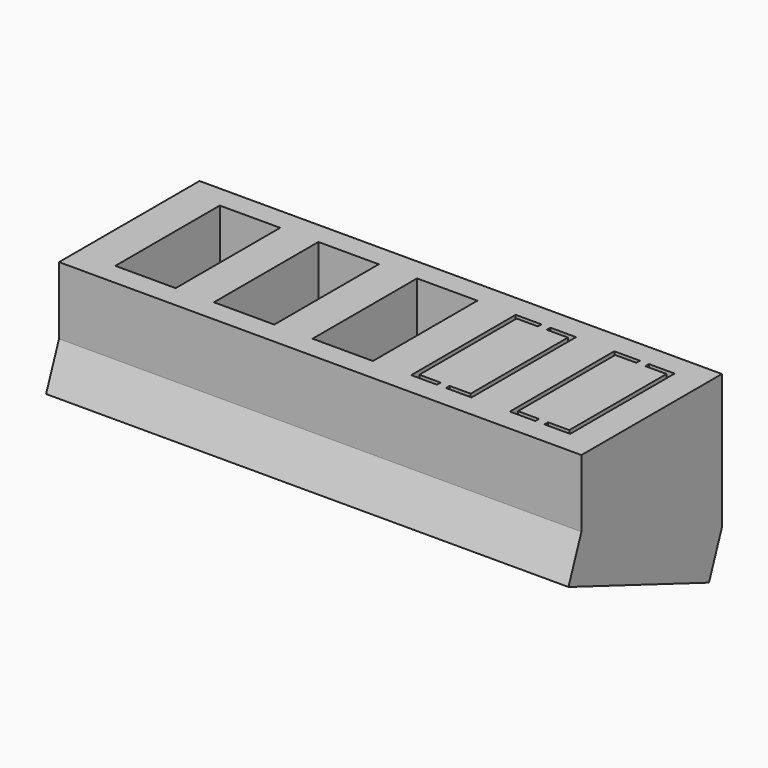
from build123d import *

# Parameters (mm, degrees)
F0_W      = 116
F0_H      = 39
F1_DEPTH  = 30
F3_DEPTH  = 121.2
F4_W      = 116
F4_H      = 41.7851648316
F5_DEPTH  = 10
F6_W      = 101
F6_H      = 31.0710200029
F7_DEPTH  = 3
F8_R      = 1.7573065985
F9_DEPTH  = 25
F10_W     = 2
F10_H     = 1
F11_DEPTH = 3


with BuildPart() as f1:
    # F0 (on Top) → F1 (new body)
    with BuildSketch(Plane.XY):
        with Locations((-10.4412920773, -4.4543696198)):
            Rectangle(F0_W, F0_H)
        Polygon((-59.9383048147, -18.9543696198), (-59.9383048147, 10.0456303802), (-46.5383048147, 10.0456303802), (-46.5383048147, -4.4543696198), (-46.5383048147, -18.9543696198), align=None, mode=Mode.SUBTRACT)
        Polygon((-38.0383048147, -18.9543696198), (-38.0383048147, -4.4543696198), (-38.0383048147, 10.0456303802), (-24.6383048147, 10.0456303802), (-24.6383048147, -4.4543696198), (-24.6383048147, -18.9543696198), align=None, mode=Mode.SUBTRACT)
        Polygon((-16.1383048147, -18.9543696198), (-16.1383048147, -4.4543696198), (-16.1383048147, 10.0456303802), (-2.7383048147, 10.0456303802), (-2.7383048147, -4.4543696198), (-2.7383048147, -18.9543696198), align=None, mode=Mode.SUBTRACT)
        Polygon((5.7616951853, -18.9543696198), (5.7616951853, -4.4543696198), (5.7616951853, 10.0456303802), (19.1616951853, 10.0456303802), (19.1616951853, -4.4543696198), (19.1616951853, -18.9543696198), align=None, mode=Mode.SUBTRACT)
        Polygon((27.6616951853, -18.9543696198), (27.6616951853, -4.4543696198), (27.6616951853, 10.0456303802), (41.0616951853, 10.0456303802), (41.0616951853, -18.9543696198), align=None, mode=Mode.SUBTRACT)
    extrude(amount=F1_DEPTH)

    # F2 (on face) → F3 (cut)
    with BuildSketch(Plane(origin=(-68.4412920773, 0, 0), x_dir=(0, -1, 0), z_dir=(-1, 0, 0))):
        Polygon((23.9543696198, 15), (-15.0456303802, 0), (23.9543696198, 0), align=None)
    extrude(amount=-F3_DEPTH, mode=Mode.SUBTRACT)

    # F4 (on face) → F5 (join)
    with BuildSketch(Plane(origin=(0, 1.9388698944, 5.0410617253), x_dir=(1, 0, 0), z_dir=(0, -0.3589790793, -0.9333456062))):
        with Locations((-10.4412920773, 6.8498094078)):
            Rectangle(F4_W, F4_H)
        Polygon((41.0616951853, 22.3853194093), (41.0616951853, -8.6857005937), (27.6616951853, -8.6857005937), (19.1616951853, -8.6857005937), (5.7616951853, -8.6857005937), (-2.7383048147, -8.6857005937), (-16.1383048147, -8.6857005937), (-24.6383048147, -8.6857005937), (-38.0383048147, -8.6857005937), (-46.5383048147, -8.6857005937), (-59.9383048147, -8.6857005937), (-59.9383048147, 22.3853194093), (-46.5383048147, 22.3853194093), (-38.0383048147, 22.3853194093), (-24.6383048147, 22.3853194093), (-16.1383048147, 22.3853194093), (-2.7383048147, 22.3853194093), (5.7616951853, 22.3853194093), (19.1616951853, 22.3853194093), (27.6616951853, 22.3853194093), align=None, mode=Mode.SUBTRACT)
    extrude(amount=F5_DEPTH)

    # F6 (on face) → F7 (join)
    with BuildSketch(Plane(origin=(0, -1.6509208987, -4.2923943367), x_dir=(1, 0, 0), z_dir=(0, -0.3589790793, -0.9333456062))):
        with Locations((-9.4383048147, 6.8498094078)):
            Rectangle(F6_W, F6_H)
    extrude(amount=-F7_DEPTH)

    # F8 (on face) → F9 (cut)
    with BuildSketch(Plane(origin=(-68.4412920773, 0, 0), x_dir=(0, -1, 0), z_dir=(-1, 0, 0))):
        with Locations((-5.6000736372, -0.6527514918)):
            Circle(F8_R)
        with Locations((0, 1.501122984)):
            Circle(F8_R)
        with Locations((5.890285937, 3.7666175752)):
            Circle(F8_R)
        with Locations((11.5189812237, 5.9315003778)):
            Circle(F8_R)
        with Locations((17.8498418632, 8.3664467776)):
            Circle(F8_R)
    extrude(amount=-F9_DEPTH, mode=Mode.SUBTRACT)

    # F10 (on face) → F11 (join)
    with BuildSketch(Plane.XY.offset(30)):
        Polygon((35.3373080328, 9.0456303802), (33.3373080328, 9.0456303802), (28.6616951853, 9.0456303802), (28.6616951853, -17.9543696198), (33.3373080328, -17.9543696198), (35.3373080328, -17.9543696198), (40.0616951853, -17.9543696198), (40.0616951853, 9.0456303802), align=None)
        Polygon((13.4860823378, 9.0456303802), (11.4860823378, 9.0456303802), (6.7616951853, 9.0456303802), (6.7616951853, -17.9543696198), (11.4860823378, -17.9543696198), (13.4860823378, -17.9543696198), (18.1616951853, -17.9543696198), (18.1616951853, 9.0456303802), align=None)
        with Locations((12.4860823378, 9.5456303802)):
            Rectangle(F10_W, F10_H)
        with Locations((34.3373080328, 9.5456303802)):
            Rectangle(F10_W, F10_H)
        with Locations((12.4860823378, -18.4543696198)):
            Rectangle(F10_W, F10_H)
        with Locations((34.3373080328, -18.4543696198)):
            Rectangle(F10_W, F10_H)
    extrude(amount=-F11_DEPTH)


solid = f1.part
